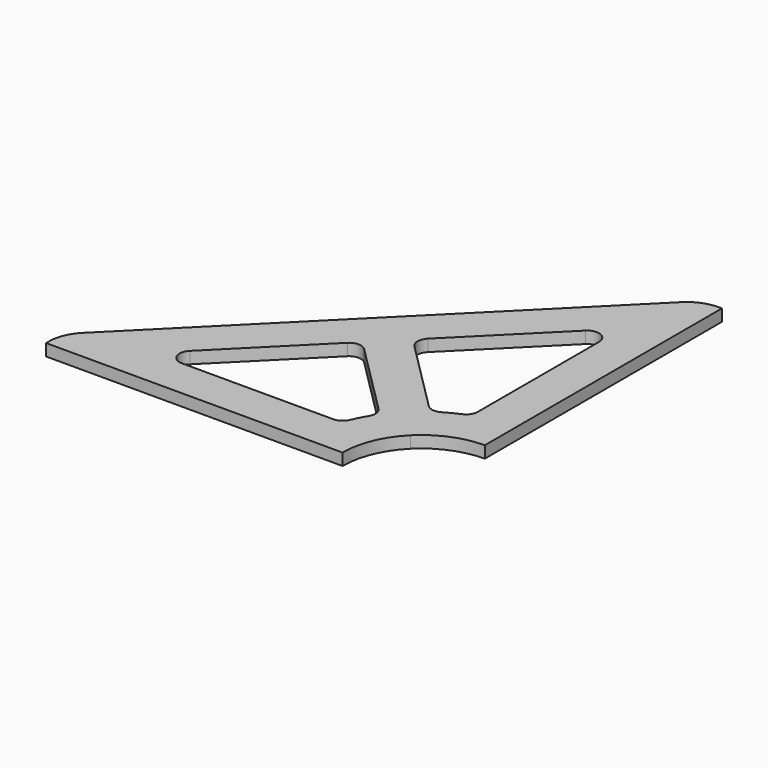
from build123d import *

# Parameters (mm, degrees)
F1_DEPTH = 3
F2_R     = 3
F3_W     = 5
F3_H     = 3
F4_DEPTH = 25
F5_W     = 5
F5_H     = 3
F6_DEPTH = 25
F7_R     = 10


with BuildPart() as f1:
    # F0 (on Top) → F1 (new body)
    with BuildSketch(Plane.XY):
        with BuildLine():
            Line((50, -50), (0, -100))
            Line((0, -100), (70, -100))
            ThreePointArc((70, -100), (70.4320432104, -94.9269406382), (71.7157287525, -90))
            Line((71.7157287525, -90), (24.1421356237, -90))
            Line((24.1421356237, -90), (53.5355339059, -60.6066017178))
            Line((53.5355339059, -60.6066017178), (75.5479654307, -82.6190332426))
            ThreePointArc((75.5479654307, -82.6190332426), (77.0871215252, -80.635083269), (78.7867965644, -78.7867965644))
            Line((78.7867965644, -78.7867965644), (50, -50))
        make_face()
        with BuildLine():
            ThreePointArc((71.7157287525, -90), (70.4320432104, -94.9269406382), (70, -100))
            Line((70, -100), (80, -100))
            ThreePointArc((80, -100), (81.5224093498, -92.3463313527), (85.8578643763, -85.8578643763))
            Line((85.8578643763, -85.8578643763), (78.7867965644, -78.7867965644))
            ThreePointArc((78.7867965644, -78.7867965644), (77.0871215252, -80.635083269), (75.5479654307, -82.6190332426))
            ThreePointArc((75.5479654307, -82.6190332426), (73.3748398058, -86.1760770896), (71.7157287525, -90))
        make_face()
        with BuildLine():
            Line((100, -70), (100, 0))
            Line((100, 0), (50, -50))
            Line((50, -50), (78.7867965644, -78.7867965644))
            ThreePointArc((78.7867965644, -78.7867965644), (80.635083269, -77.0871215252), (82.6190332426, -75.5479654307))
            Line((82.6190332426, -75.5479654307), (60.6066017178, -53.5355339059))
            Line((60.6066017178, -53.5355339059), (90, -24.1421356237))
            Line((90, -24.1421356237), (90, -71.7157287525))
            ThreePointArc((90, -71.7157287525), (94.9269406382, -70.4320432104), (100, -70))
        make_face()
        with BuildLine():
            Line((100, -80), (100, -70))
            ThreePointArc((100, -70), (94.9269406382, -70.4320432104), (90, -71.7157287525))
            ThreePointArc((90, -71.7157287525), (86.1760770896, -73.3748398058), (82.6190332426, -75.5479654307))
            ThreePointArc((82.6190332426, -75.5479654307), (80.635083269, -77.0871215252), (78.7867965644, -78.7867965644))
            Line((78.7867965644, -78.7867965644), (85.8578643763, -85.8578643763))
            ThreePointArc((85.8578643763, -85.8578643763), (92.3463313527, -81.5224093498), (100, -80))
        make_face()
    extrude(amount=F1_DEPTH)

    # F2
    f2_edges = [f1.edges().sort_by_distance(p)[0] for p in [
        (24.142136, -90, 1.5),
        (53.535534, -60.606602, 1.5),
        (71.715729, -90, 1.5),
        (75.547965, -82.619033, 1.5),
        (60.606602, -53.535534, 1.5),
        (90, -71.715729, 1.5),
        (82.619033, -75.547965, 1.5),
        (90, -24.142136, 1.5),
    ]]
    fillet(f2_edges, radius=F2_R)

    # F3 (on face) → F4 (cut)
    with BuildSketch(Plane.XZ.offset(100)):
        with Locations((2.5, 1.5)):
            Rectangle(F3_W, F3_H)
    extrude(amount=-F4_DEPTH, mode=Mode.SUBTRACT)

    # F5 (on face) → F6 (cut)
    with BuildSketch(Plane.YZ.offset(100)):
        with Locations((-2.5, 1.5)):
            Rectangle(F5_W, F5_H)
    extrude(amount=-F6_DEPTH, mode=Mode.SUBTRACT)

    # F7
    f7_edges = [f1.edges().sort_by_distance(p)[0] for p in [
        (5, -95, 1.5),
        (95, -5, 1.5),
    ]]
    fillet(f7_edges, radius=F7_R)


solid = f1.part
